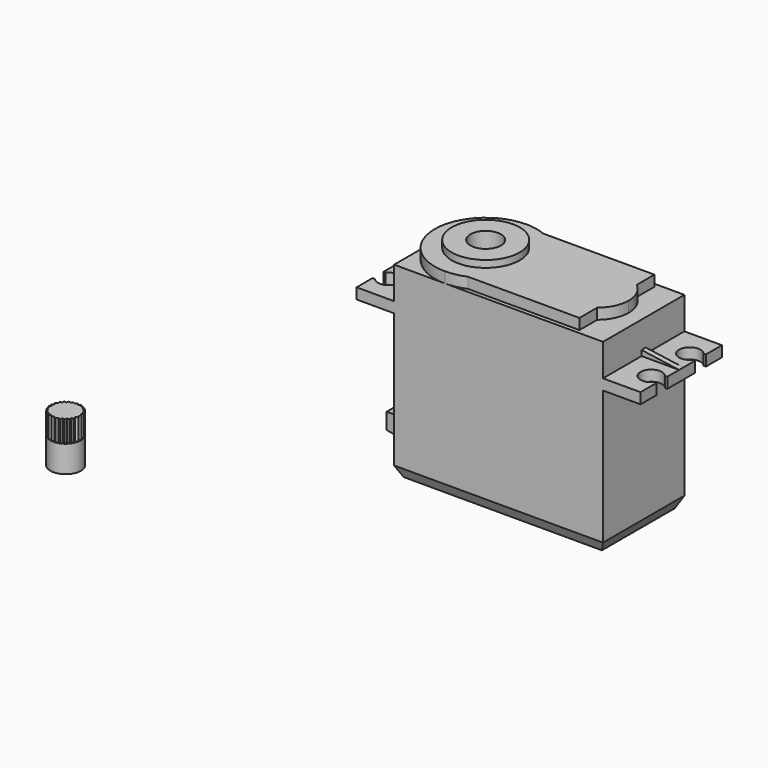
from build123d import *

# Parameters (mm, degrees)
F0_W      = 39
F0_H      = 19
F1_DEPTH  = 35
F2_W      = 19
F2_H      = 2
F3_DEPTH  = 7
F4_W      = 7
F4_H      = 1
F5_DEPTH  = 1
F7_DEPTH  = 1
F8_SIZE2  = 2
F8_SIZE   = 1
F9_W      = 0.5
F9_H      = 2.5
F9_W_2    = 0.4387505004
F10_DEPTH = 2
F12_W     = 6
F12_H     = 4
F13_DEPTH = 7
F12_R     = 2
F14_DEPTH = 5
F15_SIZE2 = 5
F15_SIZE  = 0.5
F16_R     = 6.35
F17_DEPTH = 2
F18_DEPTH = 3.3
F19_R     = 2.85
F20_DEPTH = 5
F21_R     = 2.85
F22_DEPTH = 5
F24_DEPTH = 4


with BuildPart() as f1:
    # F0 (on Top) → F1 (new body)
    with BuildSketch(Plane.XY):
        Rectangle(F0_W, F0_H)
    extrude(amount=F1_DEPTH)

    # F2 (on face) → F3 (join)
    with BuildSketch(Plane(origin=(-19.5, 0, 0), x_dir=(0, -1, 0), z_dir=(-1, 0, 0))):
        with Locations((0, 28)):
            Rectangle(F2_W, F2_H)
    extrude(amount=F3_DEPTH)

    # F4 (on face) → F5 (join)
    with BuildSketch(Plane.XY.offset(29)):
        with Locations((-23, 0)):
            Rectangle(F4_W, F4_H)
    extrude(amount=F5_DEPTH)

    # F6 (on face) → F7 (cut, through all)
    with BuildSketch(Plane.XZ.offset(0.5)):
        Polygon((-26.5, 30), (-26.5, 29), (-19.5, 30), align=None)
    extrude(amount=-F7_DEPTH, mode=Mode.SUBTRACT)

    # F8
    f8_edges = [f1.edges().sort_by_distance(p)[0] for p in [
        (0, -9.5, 0),
        (19.5, 0, 0),
        (0, 9.5, 0),
        (-19.5, 0, 0),
    ]]
    f8_side = f1.faces().sort_by_distance((0, 0, 0))[0]
    chamfer(f8_edges, length=F8_SIZE, length2=F8_SIZE2, reference=f8_side)

    # F9 (on face) → F10 (cut, through all)
    with BuildSketch(Plane.XY.offset(29)):
        with Locations((-26.3112494996, 4.5)):
            Rectangle(F9_W, F9_H)
        with BuildLine():
            Line((-26.0612494996, 5.75), (-26.0612494996, 3.25))
            ThreePointArc((-26.0612494996, 3.25), (-22.5, 4.5), (-26.0612494996, 5.75))
        make_face()
        with Locations((-26.2806247498, -4.5)):
            Rectangle(F9_W_2, F9_H)
        with BuildLine():
            Line((-26.0612494996, -3.25), (-26.0612494996, -5.75))
            ThreePointArc((-26.0612494996, -5.75), (-22.5, -4.5), (-26.0612494996, -3.25))
        make_face()
    extrude(amount=-F10_DEPTH, mode=Mode.SUBTRACT)

    # F11: F1 across plane


with BuildPart() as f1_1:
    add(f1.part)
    add(f1.part.mirror(Plane.YZ))

    # F12 (on face) → F13 (join)
    with BuildSketch(Plane(origin=(-19.5, 0, 0), x_dir=(0, -1, 0), z_dir=(-1, 0, 0))):
        with Locations((0, 4.2)):
            Rectangle(F12_W, F12_H)
    extrude(amount=F13_DEPTH)

    # F12 (on face) → F14 (cut)
    with BuildSketch(Plane(origin=(-19.5, 0, 0), x_dir=(0, -1, 0), z_dir=(-1, 0, 0))):
        with Locations((0, 15.7)):
            Circle(F12_R)
    extrude(amount=-F14_DEPTH, mode=Mode.SUBTRACT)

    # F15
    f15_edges = [f1_1.edges().sort_by_distance(p)[0] for p in [
        (-26.5, 0, 2.2),
        (-26.5, -3, 4.2),
        (-26.5, 0, 6.2),
        (-26.5, 3, 4.2),
    ]]
    f15_side = f1_1.faces().sort_by_distance((-26.5, 0, 4.2))[0]
    chamfer(f15_edges, length=F15_SIZE, length2=F15_SIZE2, reference=f15_side)

    # F16 (on face) → F17 (join)
    with BuildSketch(Plane.XY.offset(35)):
        with BuildLine():
            ThreePointArc((-6.3003378533, -8.75), (-2.0817681774, -5.2489622596), (-0.5, 0))
            ThreePointArc((-0.5, 0), (-2.0817681774, 5.2489622596), (-6.3003378533, 8.75))
            ThreePointArc((-6.3003378533, 8.75), (-8.1125413912, 9.3106122248), (-10, 9.5))
            ThreePointArc((-10, 9.5), (-16.7175144213, 6.7175144213), (-19.5, 0))
            ThreePointArc((-19.5, 0), (-16.7175144213, -6.7175144213), (-10, -9.5))
            ThreePointArc((-10, -9.5), (-8.1125413912, -9.3106122248), (-6.3003378533, -8.75))
        make_face()
        with Locations((-10, 0)):
            Circle(F16_R, mode=Mode.SUBTRACT)
        with BuildLine():
            ThreePointArc((-6.3003378533, 8.75), (-2.0817681774, 5.2489622596), (-0.5, 0))
            ThreePointArc((-0.5, 0), (-2.0817681774, -5.2489622596), (-6.3003378533, -8.75))
            Line((-6.3003378533, -8.75), (14.5, -8.75))
            Line((14.5, -8.75), (14.5, -4.6))
            ThreePointArc((14.5, -4.6), (4.8818181818, 0), (14.5, 4.6))
            Line((14.5, 4.6), (14.5, 8.75))
            Line((14.5, 8.75), (-6.3003378533, 8.75))
        make_face()
        with BuildLine():
            Line((14.5, -4.6), (14.5, 4.6))
            ThreePointArc((14.5, 4.6), (4.8818181818, 0), (14.5, -4.6))
        make_face()
        with BuildLine():
            ThreePointArc((16.7, 0), (16.1217022188, 2.5495097568), (14.5, 4.6))
            Line((14.5, 4.6), (14.5, -4.6))
            ThreePointArc((14.5, -4.6), (16.1217022188, -2.5495097568), (16.7, 0))
        make_face()
    extrude(amount=F17_DEPTH)

    # F18 (add): a face of the model
    f18_faces = [f1_1.faces().sort_by_distance(p)[0] for p in [
        (-10, 0, 35),
    ]]
    extrude(f18_faces, amount=F18_DEPTH)

    # F19 (on face) → F20 (cut)
    with BuildSketch(Plane.XY.offset(38.3)):
        with Locations((-10, 0)):
            Circle(F19_R)
    extrude(amount=-F20_DEPTH, mode=Mode.SUBTRACT)


with BuildPart() as f22:
    # F21 (on Top) → F22 (new body)
    with BuildSketch(Plane.XY):
        with Locations((-59.341583401, -36.3488905132)):
            Circle(F21_R)
    extrude(amount=F22_DEPTH)

    # F23 (on face) → F24 (join)
    with BuildSketch(Plane.XY.offset(5)):
        Polygon((-60.7145813722, -33.8514164751), (-60.8406198108, -34.2856439005), (-61.2925426529, -34.271329925), (-61.3066333928, -34.7232597825), (-61.7479179886, -34.8217841475), (-61.6491756568, -35.263020022), (-62.0520944724, -35.4681920792), (-61.8467234126, -35.871009498), (-62.185959577, -36.1699375325), (-61.8868640083, -36.5090259957), (-62.1411020655, -36.8829272598), (-61.7670752625, -37.136980592), (-61.9203405005, -37.5623614941), (-61.4948839427, -37.7154165904), (-61.5375461429, -38.165548884), (-61.0873928306, -38.2079887296), (-61.01677137, -38.6545889472), (-60.5702060914, -38.5837468905), (-60.3907383761, -38.998753498), (-59.97582047, -38.8190808061), (-59.6987831166, -39.1764174119), (-59.341583401, -38.8992035808), (-58.9843836853, -39.1764174119), (-58.707346332, -38.8190808061), (-58.2924284258, -38.998753498), (-58.1129607105, -38.5837468905), (-57.6663954319, -38.6545889472), (-57.5957739713, -38.2079887296), (-57.1456206591, -38.165548884), (-57.1882828592, -37.7154165904), (-56.7628263014, -37.5623614941), (-56.9160915394, -37.136980592), (-56.5420647364, -36.8829272598), (-56.7963027937, -36.5090259957), (-56.4972072249, -36.1699375325), (-56.8364433893, -35.871009498), (-56.6310723295, -35.4681920792), (-57.0339911452, -35.263020022), (-56.9352488133, -34.8217841475), (-57.3765334092, -34.7232597825), (-57.3906241491, -34.271329925), (-57.8425469911, -34.2856439005), (-57.9685854298, -33.8514164751), (-58.4027505438, -33.9776693913), (-58.6328172225, -33.588428504), (-59.0219444176, -33.8186874259), (-59.341583401, -33.4988905132), (-59.6612223843, -33.8186874259), (-60.0503495794, -33.588428504), (-60.2804162582, -33.9776693913), align=None)
        with BuildLine():
            Line((-61.0868844044, -38.2080366633), (-61.0873928306, -38.2079887296))
            Line((-61.0873928306, -38.2079887296), (-61.0874725941, -38.2074843164))
            ThreePointArc((-61.0874725941, -38.2074843164), (-61.0871785211, -38.2077605131), (-61.0868844044, -38.2080366633))
        make_face(mode=Mode.SUBTRACT)
        with BuildLine():
            Line((-60.5697017177, -38.5836668779), (-60.5702060914, -38.5837468905))
            Line((-60.5702060914, -38.5837468905), (-60.5704087914, -38.5832781608))
            ThreePointArc((-60.5704087914, -38.5832781608), (-60.5700552699, -38.5834725473), (-60.5697017177, -38.5836668779))
        make_face(mode=Mode.SUBTRACT)
        with BuildLine():
            Line((-59.9753518404, -38.8188778745), (-59.97582047, -38.8190808061))
            Line((-59.97582047, -38.8190808061), (-59.9761333702, -38.8186772118))
            ThreePointArc((-59.9761333702, -38.8186772118), (-59.9757426132, -38.8187775741), (-59.9753518404, -38.8188778745))
        make_face(mode=Mode.SUBTRACT)
        with BuildLine():
            Line((-61.4944034103, -37.7155894586), (-61.4948839427, -37.7154165904))
            Line((-61.4948839427, -37.7154165904), (-61.4948357578, -37.7149081879))
            ThreePointArc((-61.4948357578, -37.7149081879), (-61.494619611, -37.7152488404), (-61.4944034103, -37.7155894586))
        make_face(mode=Mode.SUBTRACT)
        with BuildLine():
            Line((-61.7666528175, -37.1372675329), (-61.7670752625, -37.136980592))
            Line((-61.7670752625, -37.136980592), (-61.7669021569, -37.1365001451))
            ThreePointArc((-61.7669021569, -37.1365001451), (-61.7667775175, -37.1368838488), (-61.7666528175, -37.1372675329))
        make_face(mode=Mode.SUBTRACT)
        with BuildLine():
            Line((-61.8865261944, -36.5094089795), (-61.8868640083, -36.5090259957))
            Line((-61.8868640083, -36.5090259957), (-61.8865768588, -36.5086036924))
            ThreePointArc((-61.8865768588, -36.5086036924), (-61.8865515585, -36.509006338), (-61.8865261944, -36.5094089795))
        make_face(mode=Mode.SUBTRACT)
        with BuildLine():
            Line((-59.3411799613, -38.8988904813), (-59.341583401, -38.8992035808))
            Line((-59.341583401, -38.8992035808), (-59.3419868406, -38.8988904813))
            ThreePointArc((-59.3419868406, -38.8988904813), (-59.341583401, -38.8988905132), (-59.3411799613, -38.8988904813))
        make_face(mode=Mode.SUBTRACT)
        with BuildLine():
            Line((-58.7070334318, -38.8186772118), (-58.707346332, -38.8190808061))
            Line((-58.707346332, -38.8190808061), (-58.7078149615, -38.8188778745))
            ThreePointArc((-58.7078149615, -38.8188778745), (-58.7074241887, -38.8187775741), (-58.7070334318, -38.8186772118))
        make_face(mode=Mode.SUBTRACT)
        with BuildLine():
            Line((-58.1127580105, -38.5832781608), (-58.1129607105, -38.5837468905))
            Line((-58.1129607105, -38.5837468905), (-58.1134650842, -38.5836668779))
            ThreePointArc((-58.1134650842, -38.5836668779), (-58.113111532, -38.5834725473), (-58.1127580105, -38.5832781608))
        make_face(mode=Mode.SUBTRACT)
        with BuildLine():
            Line((-57.5956942078, -38.2074843164), (-57.5957739713, -38.2079887296))
            Line((-57.5957739713, -38.2079887296), (-57.5962823975, -38.2080366633))
            ThreePointArc((-57.5962823975, -38.2080366633), (-57.5959882808, -38.2077605131), (-57.5956942078, -38.2074843164))
        make_face(mode=Mode.SUBTRACT)
        with BuildLine():
            Line((-57.1883310441, -37.7149081879), (-57.1882828592, -37.7154165904))
            Line((-57.1882828592, -37.7154165904), (-57.1887633917, -37.7155894586))
            ThreePointArc((-57.1887633917, -37.7155894586), (-57.1885471909, -37.7152488404), (-57.1883310441, -37.7149081879))
        make_face(mode=Mode.SUBTRACT)
        with BuildLine():
            Line((-56.9162646451, -37.1365001451), (-56.9160915394, -37.136980592))
            Line((-56.9160915394, -37.136980592), (-56.9165139845, -37.1372675329))
            ThreePointArc((-56.9165139845, -37.1372675329), (-56.9163892844, -37.1368838488), (-56.9162646451, -37.1365001451))
        make_face(mode=Mode.SUBTRACT)
        with BuildLine():
            Line((-56.7965899431, -36.5086036924), (-56.7963027937, -36.5090259957))
            Line((-56.7963027937, -36.5090259957), (-56.7966406075, -36.5094089795))
            ThreePointArc((-56.7966406075, -36.5094089795), (-56.7966152435, -36.509006338), (-56.7965899431, -36.5086036924))
        make_face(mode=Mode.SUBTRACT)
        with BuildLine():
            Line((-61.846491456, -35.8714644606), (-61.8467234126, -35.871009498))
            Line((-61.8467234126, -35.871009498), (-61.8463402619, -35.8706718733))
            ThreePointArc((-61.8463402619, -35.8706718733), (-61.8464158903, -35.871068161), (-61.846491456, -35.8714644606))
        make_face(mode=Mode.SUBTRACT)
        with BuildLine():
            Line((-61.6490641321, -35.2635183764), (-61.6491756568, -35.263020022))
            Line((-61.6491756568, -35.263020022), (-61.6487205796, -35.2627882902))
            ThreePointArc((-61.6487205796, -35.2627882902), (-61.6488923848, -35.2631533197), (-61.6490641321, -35.2635183764))
        make_face(mode=Mode.SUBTRACT)
        with BuildLine():
            Line((-61.3066493076, -34.7237702153), (-61.3066333928, -34.7232597825))
            Line((-61.3066333928, -34.7232597825), (-61.3061349833, -34.7231485041))
            ThreePointArc((-61.3061349833, -34.7231485041), (-61.30639217, -34.7234593393), (-61.3066493076, -34.7237702153))
        make_face(mode=Mode.SUBTRACT)
        with BuildLine():
            Line((-60.8406198108, -34.2856439005), (-60.840109386, -34.2856600675))
            ThreePointArc((-60.840109386, -34.2856600675), (-60.8404357943, -34.2858971775), (-60.8407621651, -34.2861343392))
            Line((-60.8407621651, -34.2861343392), (-60.8406198108, -34.2856439005))
        make_face(mode=Mode.SUBTRACT)
        with BuildLine():
            Line((-60.2806761073, -33.9781090199), (-60.2804162582, -33.9776693913))
            Line((-60.2804162582, -33.9776693913), (-60.2799258899, -33.9778119878))
            ThreePointArc((-60.2799258899, -33.9778119878), (-60.2803010103, -33.9779604742), (-60.2806761073, -33.9781090199))
        make_face(mode=Mode.SUBTRACT)
        with BuildLine():
            Line((-56.83682654, -35.8706718733), (-56.8364433893, -35.871009498))
            Line((-56.8364433893, -35.871009498), (-56.8366753459, -35.8714644606))
            ThreePointArc((-56.8366753459, -35.8714644606), (-56.8367509116, -35.871068161), (-56.83682654, -35.8706718733))
        make_face(mode=Mode.SUBTRACT)
        with BuildLine():
            Line((-57.0344462223, -35.2627882902), (-57.0339911452, -35.263020022))
            Line((-57.0339911452, -35.263020022), (-57.0341026698, -35.2635183764))
            ThreePointArc((-57.0341026698, -35.2635183764), (-57.0342744172, -35.2631533197), (-57.0344462223, -35.2627882902))
        make_face(mode=Mode.SUBTRACT)
        with BuildLine():
            Line((-59.0223839178, -33.8189474921), (-59.0219444176, -33.8186874259))
            Line((-59.0219444176, -33.8186874259), (-59.021583401, -33.8190486209))
            ThreePointArc((-59.021583401, -33.8190486209), (-59.0219836554, -33.8189980248), (-59.0223839178, -33.8189474921))
        make_face(mode=Mode.SUBTRACT)
        with BuildLine():
            Line((-57.3770318186, -34.7231485041), (-57.3765334092, -34.7232597825))
            Line((-57.3765334092, -34.7232597825), (-57.3765174944, -34.7237702153))
            ThreePointArc((-57.3765174944, -34.7237702153), (-57.3767746319, -34.7234593393), (-57.3770318186, -34.7231485041))
        make_face(mode=Mode.SUBTRACT)
        with BuildLine():
            Line((-57.8430574159, -34.2856600675), (-57.8425469911, -34.2856439005))
            Line((-57.8425469911, -34.2856439005), (-57.8424046368, -34.2861343392))
            ThreePointArc((-57.8424046368, -34.2861343392), (-57.8427310076, -34.2858971775), (-57.8430574159, -34.2856600675))
        make_face(mode=Mode.SUBTRACT)
        with BuildLine():
            Line((-61.3061349833, -34.7231485041), (-61.3066333928, -34.7232597825))
            Line((-61.3066333928, -34.7232597825), (-61.3066493076, -34.7237702153))
            ThreePointArc((-61.3066493076, -34.7237702153), (-61.30639217, -34.7234593393), (-61.3061349833, -34.7231485041))
        make_face()
        with BuildLine():
            Line((-61.6487205796, -35.2627882902), (-61.6491756568, -35.263020022))
            Line((-61.6491756568, -35.263020022), (-61.6490641321, -35.2635183764))
            ThreePointArc((-61.6490641321, -35.2635183764), (-61.6488923848, -35.2631533197), (-61.6487205796, -35.2627882902))
        make_face()
        with BuildLine():
            Line((-61.8463402619, -35.8706718733), (-61.8467234126, -35.871009498))
            Line((-61.8467234126, -35.871009498), (-61.846491456, -35.8714644606))
            ThreePointArc((-61.846491456, -35.8714644606), (-61.8464158903, -35.871068161), (-61.8463402619, -35.8706718733))
        make_face()
        with BuildLine():
            Line((-61.8865768588, -36.5086036924), (-61.8868640083, -36.5090259957))
            Line((-61.8868640083, -36.5090259957), (-61.8865261944, -36.5094089795))
            ThreePointArc((-61.8865261944, -36.5094089795), (-61.8865515585, -36.509006338), (-61.8865768588, -36.5086036924))
        make_face()
        with BuildLine():
            Line((-61.7669021569, -37.1365001451), (-61.7670752625, -37.136980592))
            Line((-61.7670752625, -37.136980592), (-61.7666528175, -37.1372675329))
            ThreePointArc((-61.7666528175, -37.1372675329), (-61.7667775175, -37.1368838488), (-61.7669021569, -37.1365001451))
        make_face()
        with BuildLine():
            Line((-61.4948357578, -37.7149081879), (-61.4948839427, -37.7154165904))
            Line((-61.4948839427, -37.7154165904), (-61.4944034103, -37.7155894586))
            ThreePointArc((-61.4944034103, -37.7155894586), (-61.494619611, -37.7152488404), (-61.4948357578, -37.7149081879))
        make_face()
        with BuildLine():
            Line((-61.0874725941, -38.2074843164), (-61.0873928306, -38.2079887296))
            Line((-61.0873928306, -38.2079887296), (-61.0868844044, -38.2080366633))
            ThreePointArc((-61.0868844044, -38.2080366633), (-61.0871785211, -38.2077605131), (-61.0874725941, -38.2074843164))
        make_face()
        with BuildLine():
            Line((-60.5704087914, -38.5832781608), (-60.5702060914, -38.5837468905))
            Line((-60.5702060914, -38.5837468905), (-60.5697017177, -38.5836668779))
            ThreePointArc((-60.5697017177, -38.5836668779), (-60.5700552699, -38.5834725473), (-60.5704087914, -38.5832781608))
        make_face()
        with BuildLine():
            Line((-59.9761333702, -38.8186772118), (-59.97582047, -38.8190808061))
            Line((-59.97582047, -38.8190808061), (-59.9753518404, -38.8188778745))
            ThreePointArc((-59.9753518404, -38.8188778745), (-59.9757426132, -38.8187775741), (-59.9761333702, -38.8186772118))
        make_face()
        with BuildLine():
            Line((-59.3419868406, -38.8988904813), (-59.341583401, -38.8992035808))
            Line((-59.341583401, -38.8992035808), (-59.3411799613, -38.8988904813))
            ThreePointArc((-59.3411799613, -38.8988904813), (-59.341583401, -38.8988905132), (-59.3419868406, -38.8988904813))
        make_face()
        with BuildLine():
            Line((-58.7078149615, -38.8188778745), (-58.707346332, -38.8190808061))
            Line((-58.707346332, -38.8190808061), (-58.7070334318, -38.8186772118))
            ThreePointArc((-58.7070334318, -38.8186772118), (-58.7074241887, -38.8187775741), (-58.7078149615, -38.8188778745))
        make_face()
        with BuildLine():
            Line((-58.1134650842, -38.5836668779), (-58.1129607105, -38.5837468905))
            Line((-58.1129607105, -38.5837468905), (-58.1127580105, -38.5832781608))
            ThreePointArc((-58.1127580105, -38.5832781608), (-58.113111532, -38.5834725473), (-58.1134650842, -38.5836668779))
        make_face()
        with BuildLine():
            Line((-57.5962823975, -38.2080366633), (-57.5957739713, -38.2079887296))
            Line((-57.5957739713, -38.2079887296), (-57.5956942078, -38.2074843164))
            ThreePointArc((-57.5956942078, -38.2074843164), (-57.5959882808, -38.2077605131), (-57.5962823975, -38.2080366633))
        make_face()
        with BuildLine():
            Line((-57.1887633917, -37.7155894586), (-57.1882828592, -37.7154165904))
            Line((-57.1882828592, -37.7154165904), (-57.1883310441, -37.7149081879))
            ThreePointArc((-57.1883310441, -37.7149081879), (-57.1885471909, -37.7152488404), (-57.1887633917, -37.7155894586))
        make_face()
        with BuildLine():
            Line((-56.9165139845, -37.1372675329), (-56.9160915394, -37.136980592))
            Line((-56.9160915394, -37.136980592), (-56.9162646451, -37.1365001451))
            ThreePointArc((-56.9162646451, -37.1365001451), (-56.9163892844, -37.1368838488), (-56.9165139845, -37.1372675329))
        make_face()
        with BuildLine():
            Line((-56.7966406075, -36.5094089795), (-56.7963027937, -36.5090259957))
            Line((-56.7963027937, -36.5090259957), (-56.7965899431, -36.5086036924))
            ThreePointArc((-56.7965899431, -36.5086036924), (-56.7966152435, -36.509006338), (-56.7966406075, -36.5094089795))
        make_face()
        with BuildLine():
            Line((-56.8366753459, -35.8714644606), (-56.8364433893, -35.871009498))
            Line((-56.8364433893, -35.871009498), (-56.83682654, -35.8706718733))
            ThreePointArc((-56.83682654, -35.8706718733), (-56.8367509116, -35.871068161), (-56.8366753459, -35.8714644606))
        make_face()
        with BuildLine():
            Line((-57.0341026698, -35.2635183764), (-57.0339911452, -35.263020022))
            Line((-57.0339911452, -35.263020022), (-57.0344462223, -35.2627882902))
            ThreePointArc((-57.0344462223, -35.2627882902), (-57.0342744172, -35.2631533197), (-57.0341026698, -35.2635183764))
        make_face()
        with BuildLine():
            Line((-57.3765174944, -34.7237702153), (-57.3765334092, -34.7232597825))
            Line((-57.3765334092, -34.7232597825), (-57.3770318186, -34.7231485041))
            ThreePointArc((-57.3770318186, -34.7231485041), (-57.3767746319, -34.7234593393), (-57.3765174944, -34.7237702153))
        make_face()
        with BuildLine():
            Line((-57.8424046368, -34.2861343392), (-57.8425469911, -34.2856439005))
            Line((-57.8425469911, -34.2856439005), (-57.8430574159, -34.2856600675))
            ThreePointArc((-57.8430574159, -34.2856600675), (-57.8427310076, -34.2858971775), (-57.8424046368, -34.2861343392))
        make_face()
        with BuildLine():
            Line((-59.021583401, -33.8190486209), (-59.0219444176, -33.8186874259))
            Line((-59.0219444176, -33.8186874259), (-59.0223839178, -33.8189474921))
            ThreePointArc((-59.0223839178, -33.8189474921), (-59.0219836554, -33.8189980248), (-59.021583401, -33.8190486209))
        make_face()
        with BuildLine():
            Line((-60.2799258899, -33.9778119878), (-60.2804162582, -33.9776693913))
            Line((-60.2804162582, -33.9776693913), (-60.2806761073, -33.9781090199))
            ThreePointArc((-60.2806761073, -33.9781090199), (-60.2803010103, -33.9779604742), (-60.2799258899, -33.9778119878))
        make_face()
        with BuildLine():
            ThreePointArc((-60.8407621651, -34.2861343392), (-60.8404357943, -34.2858971775), (-60.840109386, -34.2856600675))
            Line((-60.840109386, -34.2856600675), (-60.8406198108, -34.2856439005))
            Line((-60.8406198108, -34.2856439005), (-60.8407621651, -34.2861343392))
        make_face()
    extrude(amount=F24_DEPTH)


solid = Compound([f1_1.part, f22.part])
